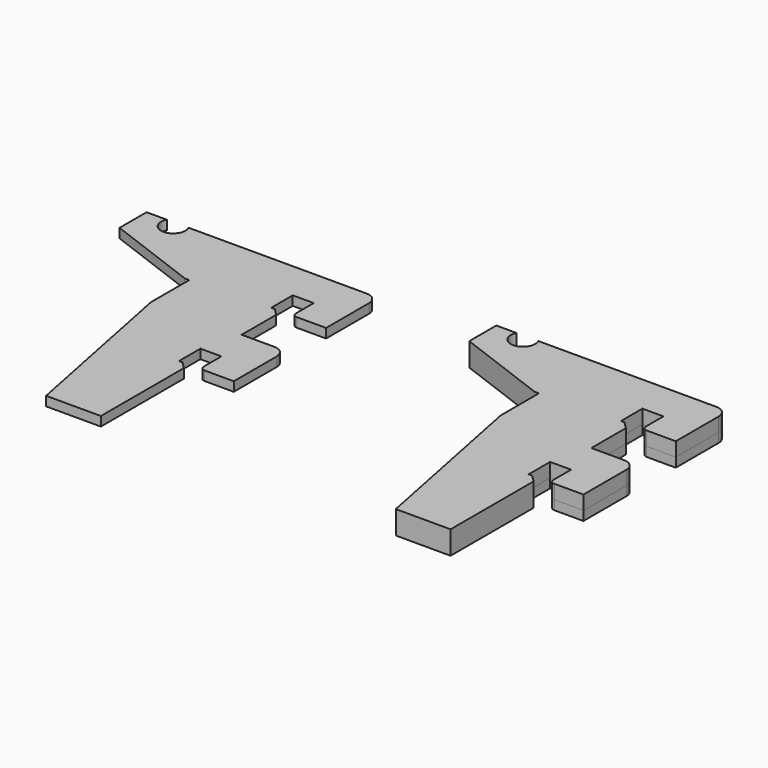
from build123d import *

# Parameters (mm, degrees)
F1_DEPTH  = 2.032
F2_R      = 1.016
F3_SIZE   = 1.524
F4_R      = 2.54
F6_DEPTH  = 2.032
F7_SIZE2  = 20.32
F7_SIZE   = 7.62
F8_SIZE2  = 38.1
F8_SIZE   = 7.62
F10_DEPTH = 5.08


with BuildPart() as f1:
    # F0 (on Top) → F1 (new body)
    with BuildSketch(Plane.XY):
        Polygon((0, 63.4997866367), (0, 0), (19.558, 0), (19.558, 24.1297866367), (17.272, 24.1297866367), (17.272, 29.9717866367), (21.844, 29.9717866367), (21.844, 24.1297866367), (29.21, 24.1297866367), (29.21, 38.3537866367), (19.558, 38.3537866367), (19.558, 49.2757866367), (17.272, 49.2757866367), (17.272, 55.1177866367), (21.844, 55.1177866367), (21.844, 49.2757866367), (29.21, 49.2757866367), (29.21, 63.4997866367), align=None)
    extrude(amount=F1_DEPTH)

    # F2
    f2_edges = [f1.edges().sort_by_distance(p)[0] for p in [
        (21.844, 49.275787, 1.016),
        (21.844, 24.129787, 1.016),
    ]]
    fillet(f2_edges, radius=F2_R)

    # F3
    f3_edges = [f1.edges().sort_by_distance(p)[0] for p in [
        (19.558, 49.275787, 1.016),
        (19.558, 24.129787, 1.016),
    ]]
    chamfer(f3_edges, length=F3_SIZE)

    # F4
    f4_edges = [f1.edges().sort_by_distance(p)[0] for p in [
        (29.21, 38.353787, 1.016),
        (29.21, 63.499787, 1.016),
    ]]
    fillet(f4_edges, radius=F4_R)

    # F5 (on face) → F6 (join)
    with BuildSketch(Plane.XY.offset(2.032)):
        with BuildLine():
            Line((0, 48.5137866367), (0, 63.4997866367))
            Line((0, 63.4997866367), (-12.144202836, 63.4997866367))
            ThreePointArc((-12.144202836, 63.4997866367), (-11.9289998415, 62.9156579899), (-11.8559227776, 62.2974522412))
            ThreePointArc((-11.8559227776, 62.2974522412), (-15.1255665051, 59.7190913262), (-16.8705186768, 63.4997866367))
            Line((-16.8705186768, 63.4997866367), (-21.2773028761, 63.4997866367))
            Line((-21.2773028761, 63.4997866367), (-21.2773028761, 48.5137866367))
            Line((-21.2773028761, 48.5137866367), (0, 48.5137866367))
        make_face()
    extrude(amount=-F6_DEPTH)

    # F7
    f7_edges = [f1.edges().sort_by_distance(p)[0] for p in [
        (-21.277303, 48.513787, 1.016),
    ]]
    f7_side = f1.faces().sort_by_distance((-21.277303, 56.006787, 1.016))[0]
    chamfer(f7_edges, length=F7_SIZE, length2=F7_SIZE2, reference=f7_side)

    # F8
    f8_edges = [f1.edges().sort_by_distance(p)[0] for p in [
        (0, 0, 1.016),
    ]]
    f8_side = f1.faces().sort_by_distance((9.779, 0, 1.016))[0]
    chamfer(f8_edges, length=F8_SIZE, length2=F8_SIZE2, reference=f8_side)


with BuildPart() as f9_1:
    # F9: copy of F1
    add(f1.part.moved(Location((76.2, 0, 0))))

    # F10 (add): a face of the model
    f10_faces = [f9_1.faces().sort_by_distance(p)[0] for p in [
        (86.1394655393, 39.1146540643, 0),
    ]]
    extrude(f10_faces, amount=-F10_DEPTH)


solid = Compound([f1.part, f9_1.part])
